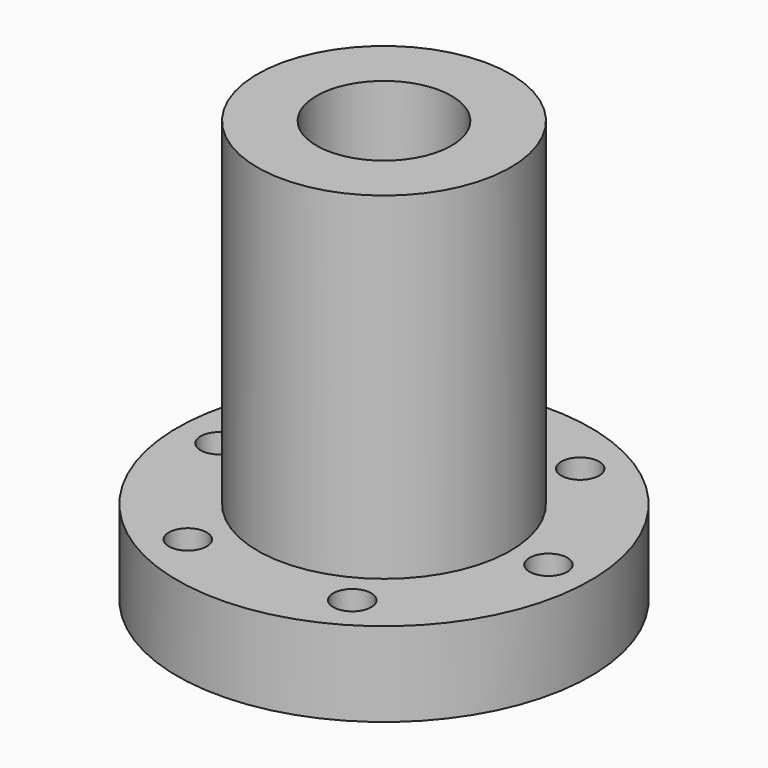
from build123d import *

# Parameters (mm, degrees)
F1_ANGLE_BACK  = 30
F1_ANGLE       = 60
F3_D           = 4.5
F3_CBORE_D     = 8
F3_CBORE_DEPTH = 4.5
F4_COUNT       = 6
F8_R           = 3
F9_DEPTH       = 25


with BuildPart() as f1:
    # F0 (on Front) → F1 (revolve)
    with BuildSketch(Plane.XZ, mode=Mode.PRIVATE) as f1_sk:
        Polygon((8, 50), (8, 0), (24.5, 0), (24.5, 10), (15, 10), (15, 50), align=None)
    revolve(f1_sk.sketch.rotate(Axis((0, 0, 41.6573854163), (0, 0, 1)), -F1_ANGLE_BACK), axis=Axis((0, 0, 41.6573854163), (0, 0, 1)), revolution_arc=F1_ANGLE)

    # F3 (through all)
    with Locations(Plane(origin=(0, 0, 0), x_dir=(1, 0, 0), z_dir=(0, 0, -1))):
        with Locations((19.5, 0)):
            CounterBoreHole(F3_D / 2, F3_CBORE_D / 2, F3_CBORE_DEPTH)


with BuildPart() as f4_1:
    # F4: instance of F1
    add(f1.part.rotate(Axis((0, 0, 41.6573854163), (0, 0, -1)), 1 * 360 / F4_COUNT))


with BuildPart() as f4_2:
    # F4: instance of F1
    add(f1.part.rotate(Axis((0, 0, 41.6573854163), (0, 0, -1)), 2 * 360 / F4_COUNT))


with BuildPart() as f4_3:
    # F4: instance of F1
    add(f1.part.rotate(Axis((0, 0, 41.6573854163), (0, 0, -1)), 3 * 360 / F4_COUNT))


with BuildPart() as f4_4:
    # F4: instance of F1
    add(f1.part.rotate(Axis((0, 0, 41.6573854163), (0, 0, -1)), 4 * 360 / F4_COUNT))


with BuildPart() as f4_5:
    # F4: instance of F1
    add(f1.part.rotate(Axis((0, 0, 41.6573854163), (0, 0, -1)), 5 * 360 / F4_COUNT))


with BuildPart() as f4_1_1:
    add(f4_1.part)

    # F5: union F1, F4_5, F4_4, F4_3, F4_2
    add(f1.part)
    add(f4_5.part)
    add(f4_4.part)
    add(f4_3.part)
    add(f4_2.part)

    # F8 (on plane+point) → F9 (cut)
    with BuildSketch(Plane.XZ.offset(-24.5)):
        with Locations((0, 5)):
            Circle(F8_R)
    extrude(amount=F9_DEPTH, mode=Mode.SUBTRACT)


solid = f4_1_1.part
